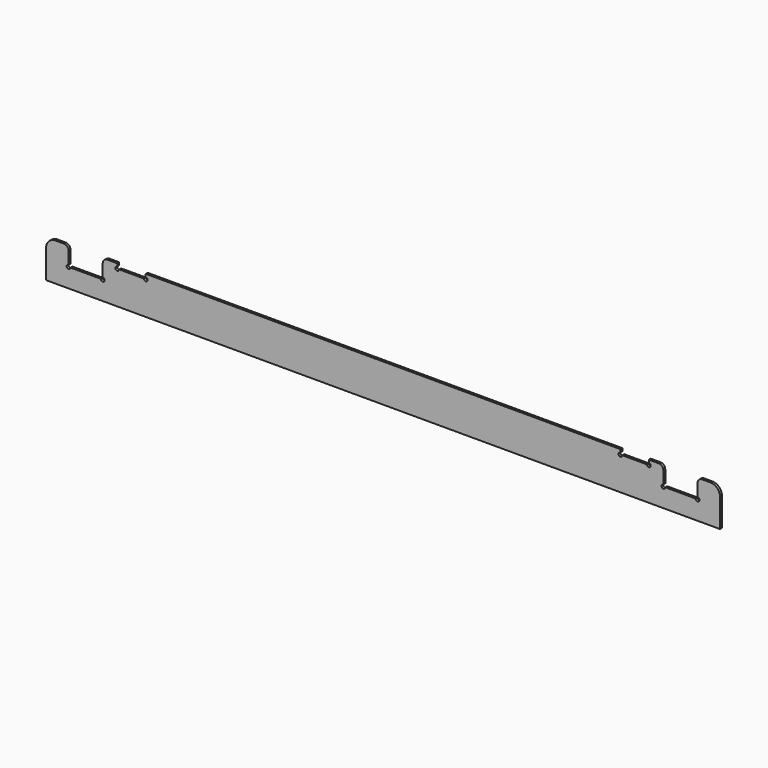
from build123d import *

# Parameters (mm, degrees)
F1_DEPTH = 5


with BuildPart() as f1:
    # F0 (on Front) → F1 (new body)
    with BuildSketch(Plane.XZ):
        with BuildLine():
            Line((-672.61, 40), (-690, 40))
            ThreePointArc((-690, 40), (-704.142136, 34.142136), (-710, 20))
            Line((-710, 20), (-710, -40))
            Line((-710, -40), (710, -40))
            Line((710, -40), (710, 20))
            ThreePointArc((710, 20), (704.142136, 34.142136), (690, 40))
            Line((690, 40), (672.61, 40))
            ThreePointArc((672.61, 40), (665.538932, 37.071068), (662.61, 30))
            Line((662.61, 30), (662.61, 4))
            ThreePointArc((662.61, 4), (665.438427, -2.828427), (658.61, 0))
            Line((658.61, 0), (594.61, 0))
            ThreePointArc((594.61, 0), (587.781573, -2.828427), (590.61, 4))
            Line((590.61, 4), (590.61, 30))
            ThreePointArc((590.61, 30), (587.681068, 37.071068), (580.61, 40))
            Line((580.61, 40), (560, 40))
            Line((560, 40), (560, 34))
            ThreePointArc((560, 34), (562.828427, 27.171573), (556, 30))
            Line((556, 30), (504, 30))
            ThreePointArc((504, 30), (497.171573, 27.171573), (500, 34))
            Line((500, 34), (500, 40))
            Line((500, 40), (-500, 40))
            Line((-500, 40), (-500, 34))
            ThreePointArc((-500, 34), (-497.171573, 27.171573), (-504, 30))
            Line((-504, 30), (-556, 30))
            ThreePointArc((-556, 30), (-562.828427, 27.171573), (-560, 34))
            Line((-560, 34), (-560, 40))
            Line((-560, 40), (-580.61, 40))
            ThreePointArc((-580.61, 40), (-587.681068, 37.071068), (-590.61, 30))
            Line((-590.61, 30), (-590.61, 4))
            ThreePointArc((-590.61, 4), (-587.781573, -2.828427), (-594.61, 0))
            Line((-594.61, 0), (-658.61, 0))
            ThreePointArc((-658.61, 0), (-665.438427, -2.828427), (-662.61, 4))
            Line((-662.61, 4), (-662.61, 30))
            ThreePointArc((-662.61, 30), (-665.538932, 37.071068), (-672.61, 40))
        make_face()
    extrude(amount=F1_DEPTH)


solid = f1.part
